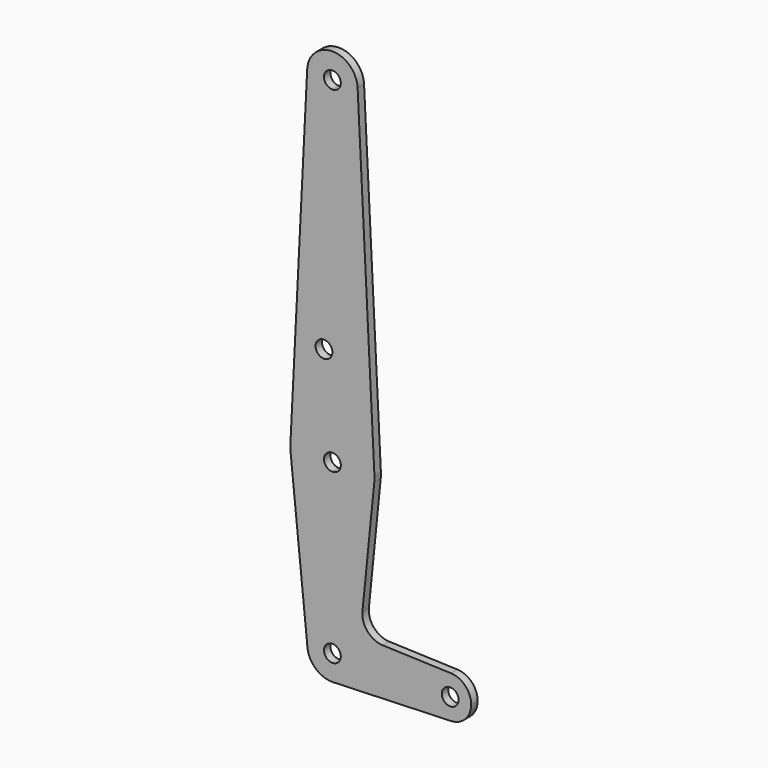
from build123d import *

# Parameters (mm, degrees)
F0_R     = 3.175
F1_DEPTH = 3.048


with BuildPart() as f1:
    # F0 (on Front) → F1 (new body)
    with BuildSketch(Plane.XZ):
        with BuildLine():
            ThreePointArc((9.5130862993, 190.97625), (0, 200.025), (-9.5130862993, 190.97625))
            ThreePointArc((-9.5130862993, 190.97625), (-6.9015181754, 183.9353467818), (0, 180.975))
            ThreePointArc((0, 180.975), (6.7351920908, 183.7648079092), (9.525, 190.5))
            ThreePointArc((9.525, 190.5), (9.522021109, 190.7381994956), (9.5130862993, 190.97625))
        make_face()
        with BuildLine():
            ThreePointArc((3.175, 190.5), (2.2450640303, 188.2549359697), (0, 187.325))
            ThreePointArc((0, 187.325), (-2.2450640303, 192.7450640303), (3.175, 190.5))
        make_face(mode=Mode.SUBTRACT)
        with BuildLine():
            Line((-9.5130862993, 190.97625), (-15.8551438321, 64.29375))
            ThreePointArc((-15.8551438321, 64.29375), (-10.941088697, 75.0025302923), (0, 79.375))
            Line((0, 79.375), (0, 100.0252))
            Line((0, 100.0252), (0, 180.975))
            ThreePointArc((0, 180.975), (-6.9015181754, 183.9353467818), (-9.5130862993, 190.97625))
        make_face()
        with Locations((-3.175, 100.0252)):
            Circle(F0_R, mode=Mode.SUBTRACT)
        with BuildLine():
            Line((0, 100.0252), (0, 79.375))
            ThreePointArc((0, 79.375), (10.941088697, 75.0025302923), (15.8551438321, 64.29375))
            Line((15.8551438321, 64.29375), (9.5130862993, 190.97625))
            ThreePointArc((9.5130862993, 190.97625), (9.522021109, 190.7381994956), (9.525, 190.5))
            ThreePointArc((9.525, 190.5), (6.7351920908, 183.7648079092), (0, 180.975))
            Line((0, 180.975), (0, 100.0252))
        make_face()
        with BuildLine():
            Line((0, 60.325), (0, 47.625))
            ThreePointArc((0, 47.625), (10.6492737428, 51.7267849017), (15.7954255641, 61.9125))
            ThreePointArc((15.7954255641, 61.9125), (15.8550939106, 62.7052534459), (15.875, 63.5))
            ThreePointArc((15.875, 63.5), (15.8700351817, 63.8969991593), (15.8551438321, 64.29375))
            ThreePointArc((15.8551438321, 64.29375), (10.941088697, 75.0025302923), (0, 79.375))
            Line((0, 79.375), (0, 66.675))
            ThreePointArc((0, 66.675), (2.2450640303, 65.7450640303), (3.175, 63.5))
            ThreePointArc((3.175, 63.5), (2.2450640303, 61.2549359697), (0, 60.325))
        make_face()
        with BuildLine():
            ThreePointArc((-15.8551438321, 64.29375), (-15.8698563353, 63.0959147404), (-15.7942028036, 61.9003804205))
            ThreePointArc((-15.7942028036, 61.9003804205), (-10.644756084, 51.722700101), (0, 47.625))
            Line((0, 47.625), (0, 60.325))
            ThreePointArc((0, 60.325), (-3.175, 63.5), (0, 66.675))
            Line((0, 66.675), (0, 79.375))
            ThreePointArc((0, 79.375), (-10.941088697, 75.0025302923), (-15.8551438321, 64.29375))
        make_face()
        with BuildLine():
            Line((-15.7942028036, 61.9003804205), (-9.525, 0))
            ThreePointArc((-9.525, 0), (-6.7351920908, 6.7351920908), (0, 9.525))
            Line((0, 9.525), (0, 47.625))
            ThreePointArc((0, 47.625), (-10.644756084, 51.722700101), (-15.7942028036, 61.9003804205))
        make_face()
        with BuildLine():
            Line((0, 47.625), (0, 9.525))
            ThreePointArc((0, 9.525), (6.7351920908, 6.7351920908), (9.525, 0))
            Line((9.525, 0), (36.5125, 0))
            ThreePointArc((36.5125, 0), (38.9380895153, 5.7116327839), (44.7324052746, 7.9324746146))
            Line((44.7324052746, 7.9324746146), (18.968327868, 8.8497055806))
            ThreePointArc((18.968327868, 8.8497055806), (13.2612039825, 11.5674628959), (11.3408358685, 17.5898921545))
            Line((11.3408358685, 17.5898921545), (15.7954255641, 61.9125))
            ThreePointArc((15.7954255641, 61.9125), (10.6492737428, 51.7267849017), (0, 47.625))
        make_face()
        with BuildLine():
            ThreePointArc((36.5125, 0), (38.9380895153, -5.7116327839), (44.7324052746, -7.9324746146))
            ThreePointArc((44.7324052746, -7.9324746146), (50.1616327839, -5.5119104847), (52.3875, 0))
            ThreePointArc((52.3875, 0), (50.1616327839, 5.5119104847), (44.7324052746, 7.9324746146))
            ThreePointArc((44.7324052746, 7.9324746146), (38.9380895153, 5.7116327839), (36.5125, 0))
        make_face()
        with BuildLine():
            ThreePointArc((47.625, 0), (44.45, -3.175), (41.275, 0))
            ThreePointArc((41.275, 0), (44.45, 3.175), (47.625, 0))
        make_face(mode=Mode.SUBTRACT)
        with BuildLine():
            ThreePointArc((0, 9.525), (-6.7351920908, 6.7351920908), (-9.525, 0))
            ThreePointArc((-9.525, 0), (-6.7351920908, -6.7351920908), (0, -9.525))
            Line((0, -9.525), (0.6773435479, -9.500885786))
            ThreePointArc((0.6773435479, -9.500885786), (6.9705567315, -6.4912990883), (9.525, 0))
            Line((9.525, 0), (3.175, 0))
            ThreePointArc((3.175, 0), (-2.2450640303, -2.2450640303), (0, 3.175))
            Line((0, 3.175), (0, 9.525))
        make_face()
        with BuildLine():
            ThreePointArc((9.525, 0), (6.7351920908, 6.7351920908), (0, 9.525))
            Line((0, 9.525), (0, 3.175))
            ThreePointArc((0, 3.175), (2.2450640303, 2.2450640303), (3.175, 0))
            Line((3.175, 0), (9.525, 0))
        make_face()
        with BuildLine():
            ThreePointArc((9.525, 0), (6.9705567315, -6.4912990883), (0.6773435479, -9.500885786))
            Line((0.6773435479, -9.500885786), (44.7324052746, -7.9324746146))
            ThreePointArc((44.7324052746, -7.9324746146), (38.9380895153, -5.7116327839), (36.5125, 0))
            Line((36.5125, 0), (9.525, 0))
        make_face()
    extrude(amount=F1_DEPTH)


solid = f1.part
